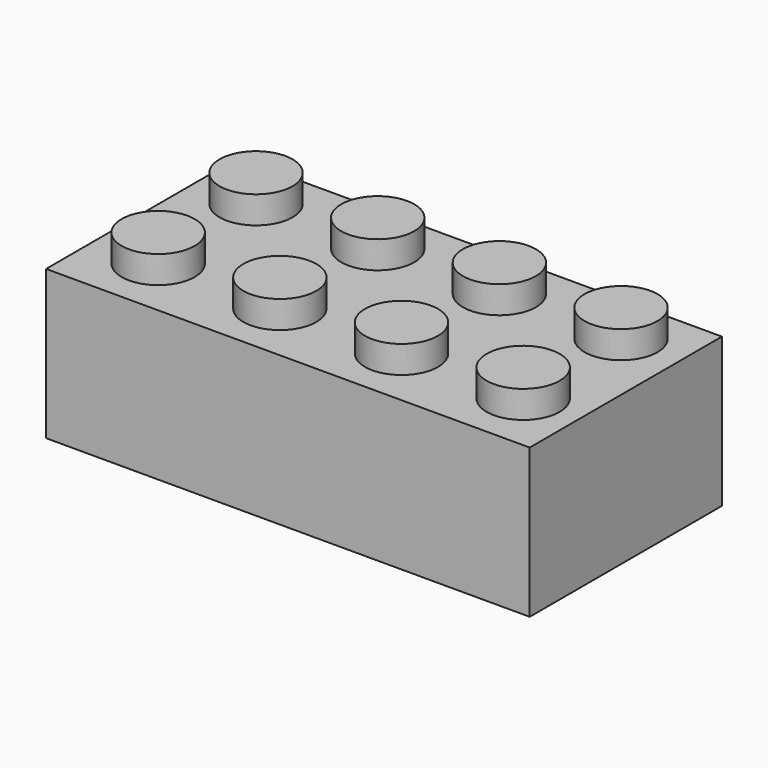
from build123d import *

# Parameters (mm, degrees)
F0_W     = 31.8
F0_H     = 15.8
F1_DEPTH = 9.8
F2_R     = 2.4
F3_DEPTH = 1.8
F4_W     = 30.6
F4_H     = 14.6
F5_DEPTH = 6.6
F6_R     = 1.3
F7_DEPTH = 1.7
F8_R     = 3.25
F8_R_2   = 2.3
F9_DEPTH = 6.6


with BuildPart() as f1:
    # F0 (on Top) → F1 (new body)
    with BuildSketch(Plane.XY):
        with Locations((15.9, 7.9)):
            Rectangle(F0_W, F0_H)
    extrude(amount=F1_DEPTH)

    # F2 (on face) → F3 (join)
    with BuildSketch(Plane.XY.offset(9.8)):
        with Locations((3.9, 12.384264)):
            Circle(F2_R)
        with Locations((28.124928, 4.057131)):
            Circle(F2_R)
        with Locations((27.9, 12.384264)):
            Circle(F2_R)
        with Locations((19.9, 12.384264)):
            Circle(F2_R)
        with Locations((20.124928, 4.057131)):
            Circle(F2_R)
        with Locations((11.9, 12.384264)):
            Circle(F2_R)
        with Locations((12.124928, 4.057131)):
            Circle(F2_R)
        with Locations((4.124928, 4.057131)):
            Circle(F2_R)
    extrude(amount=F3_DEPTH)

    # F4 (on face) → F5 (cut)
    with BuildSketch(Plane(origin=(0, 0, 0), x_dir=(1, 0, 0), z_dir=(0, 0, -1))):
        with Locations((15.9, -7.9)):
            Rectangle(F4_W, F4_H)
    extrude(amount=-F5_DEPTH, mode=Mode.SUBTRACT)

    # F6 (on face) → F7 (cut)
    with BuildSketch(Plane(origin=(0, 0, 6.6), x_dir=(1, 0, 0), z_dir=(0, 0, -1))):
        with Locations((3.614632, -3.203599)):
            Circle(F6_R)
        with Locations((11.614632, -3.203599)):
            Circle(F6_R)
        with Locations((19.614632, -3.203599)):
            Circle(F6_R)
        with Locations((27.614632, -3.203599)):
            Circle(F6_R)
        with Locations((27.614632, -11.203599)):
            Circle(F6_R)
        with Locations((19.614632, -11.203599)):
            Circle(F6_R)
        with Locations((11.614632, -11.203599)):
            Circle(F6_R)
        with Locations((3.614632, -11.203599)):
            Circle(F6_R)
    extrude(amount=-F7_DEPTH, mode=Mode.SUBTRACT)

    # F8 (on face) → F9 (join)
    with BuildSketch(Plane(origin=(0, 0, 6.6), x_dir=(1, 0, 0), z_dir=(0, 0, -1))):
        with Locations((7.414678, -7.084377)):
            Circle(F8_R)
        with Locations((7.414678, -7.084377)):
            Circle(F8_R_2, mode=Mode.SUBTRACT)
        with Locations((15.914678, -7.084377)):
            Circle(F8_R)
        with Locations((15.914678, -7.084377)):
            Circle(F8_R_2, mode=Mode.SUBTRACT)
        with Locations((24.414678, -7.084377)):
            Circle(F8_R)
        with Locations((24.414678, -7.084377)):
            Circle(F8_R_2, mode=Mode.SUBTRACT)
    extrude(amount=F9_DEPTH)


solid = f1.part
